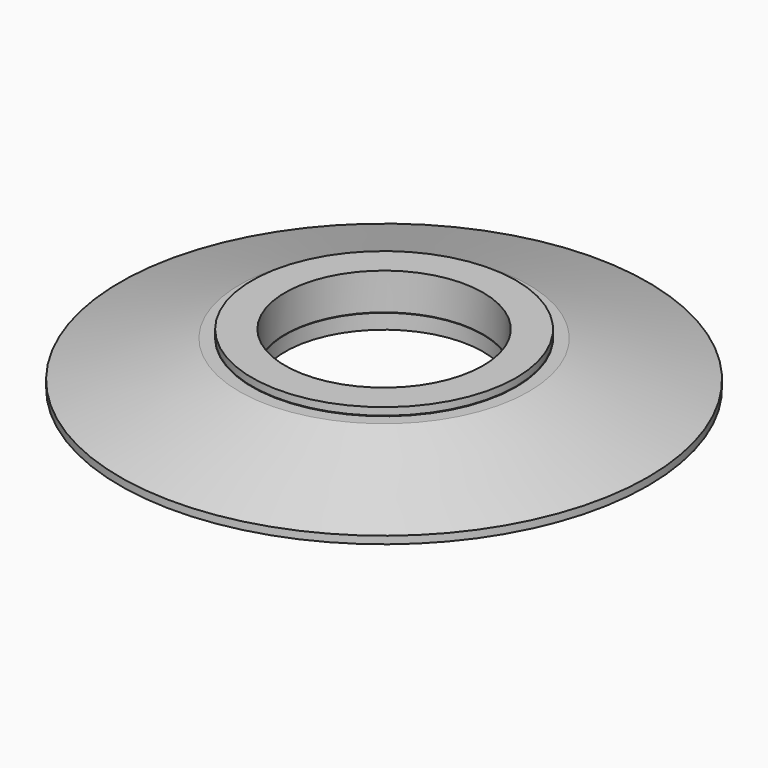
from build123d import *


with BuildPart() as f1:
    # F0 (on Front) → F1 (revolve)
    with BuildSketch(Plane.XZ):
        with BuildLine():
            Line((7.14375, 0), (19.05, 0))
            Line((19.05, 0), (19.05, 0.542475))
            Line((19.05, 0.542475), (10.4394, 3.175))
            Line((10.4394, 3.175), (9.525, 3.175))
            ThreePointArc((9.525, 3.175), (8.40026, 2.05026), (7.14375, 1.074935))
            Line((7.14375, 1.074935), (7.14375, 0))
        make_face()
    revolve(axis=Axis((0, 0, 1.185228), (0, 0, 1)))


with BuildPart() as f3:
    # F2 (on Front) → F3 (revolve)
    with BuildSketch(Plane.XZ):
        with BuildLine():
            Line((7.14375, 3.755926), (7.14375, 1.10567))
            ThreePointArc((7.14375, 1.10567), (8.400744, 2.084581), (9.525, 3.213451))
            Line((9.525, 3.213451), (9.525, 3.755926))
            Line((9.525, 3.755926), (7.14375, 3.755926))
        make_face()
    revolve(axis=Axis((0, 0, 1.185228), (0, 0, 1)))


solid = Compound([f1.part, f3.part])
